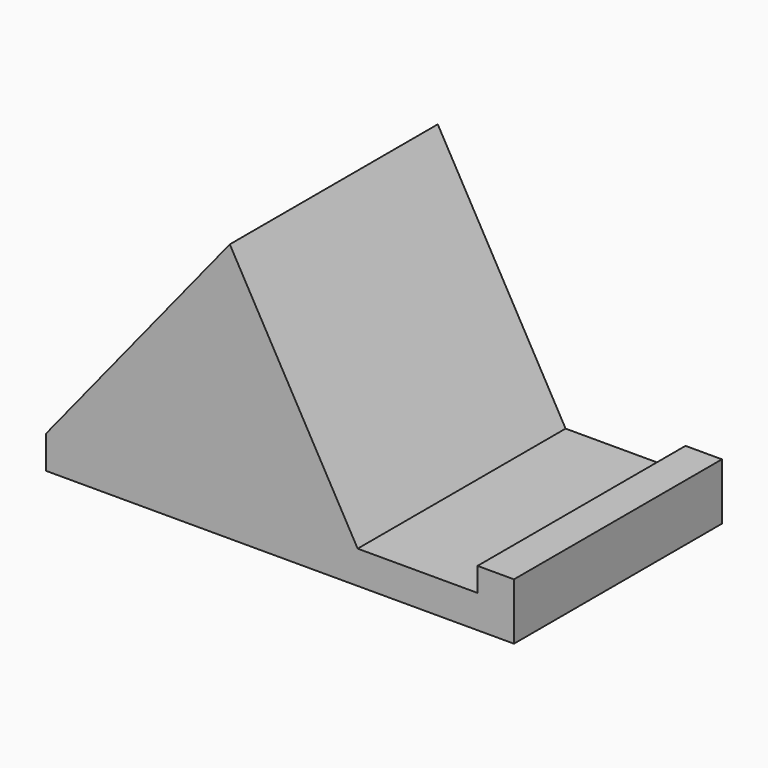
from build123d import *

# Parameters (mm, degrees)
F0_W     = 3.5603952128
F0_H     = 2.3265234751
F1_DEPTH = 25.4


with BuildPart() as f1:
    # F0 (on Front) → F1 (new body)
    with BuildSketch(Plane.XZ):
        Polygon((-45.72, 0), (0, 0), (0, 3.2118688712), (-3.5603952128, 3.2118688712), (-15.2750396183, 3.2118688712), (-45.72, 3.2118688712), align=None)
        with Locations((-1.7801976064, 4.3751306088)):
            Rectangle(F0_W, F0_H)
        Polygon((-27.766545563, 25.327977915), (-45.72, 3.2118688712), (-15.2750396183, 3.2118688712), align=None)
    extrude(amount=F1_DEPTH)


solid = f1.part
